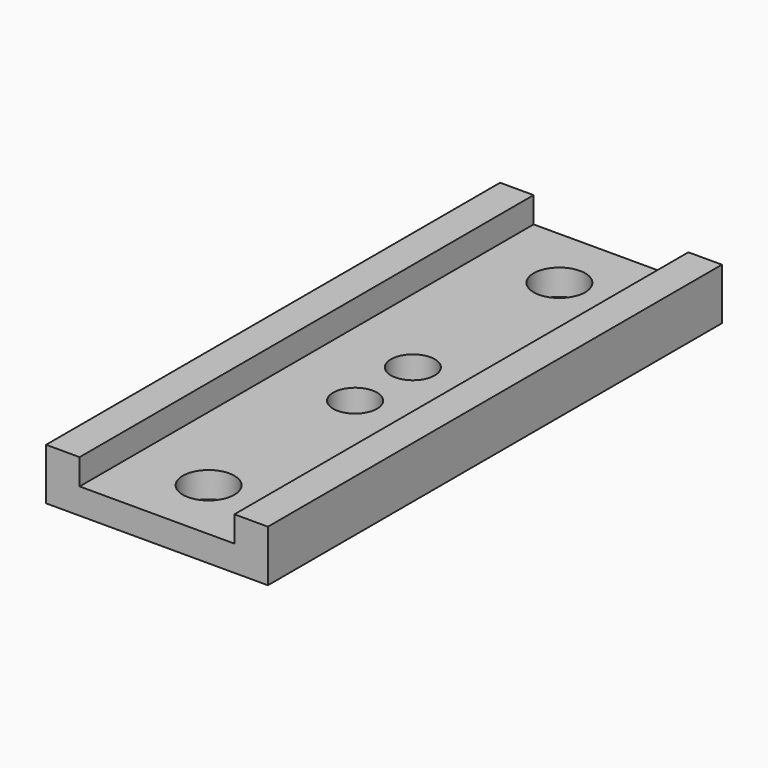
from build123d import *

# Parameters (mm, degrees)
F0_W     = 43
F0_H     = 110
F0_R     = 5
F0_R_2   = 4.25
F1_DEPTH = 5
F2_W     = 6.5
F2_H     = 110
F3_DEPTH = 5


with BuildPart() as f1:
    # F0 (on Top) → F1 (new body)
    with BuildSketch(Plane.XY):
        Rectangle(F0_W, F0_H)
        with Locations((0, -42.5)):
            Circle(F0_R, mode=Mode.SUBTRACT)
        with Locations((0, -6.999698)):
            Circle(F0_R_2, mode=Mode.SUBTRACT)
        with Locations((0, 6.999698)):
            Circle(F0_R_2, mode=Mode.SUBTRACT)
        with Locations((0, 42.5)):
            Circle(F0_R, mode=Mode.SUBTRACT)
    extrude(amount=F1_DEPTH)

    # F2 (on face) → F3 (join)
    with BuildSketch(Plane.XY.offset(5)):
        with Locations((-18.25, 0)):
            Rectangle(F2_W, F2_H)
        with Locations((18.25, 0)):
            Rectangle(F2_W, F2_H)
    extrude(amount=F3_DEPTH)


solid = f1.part
